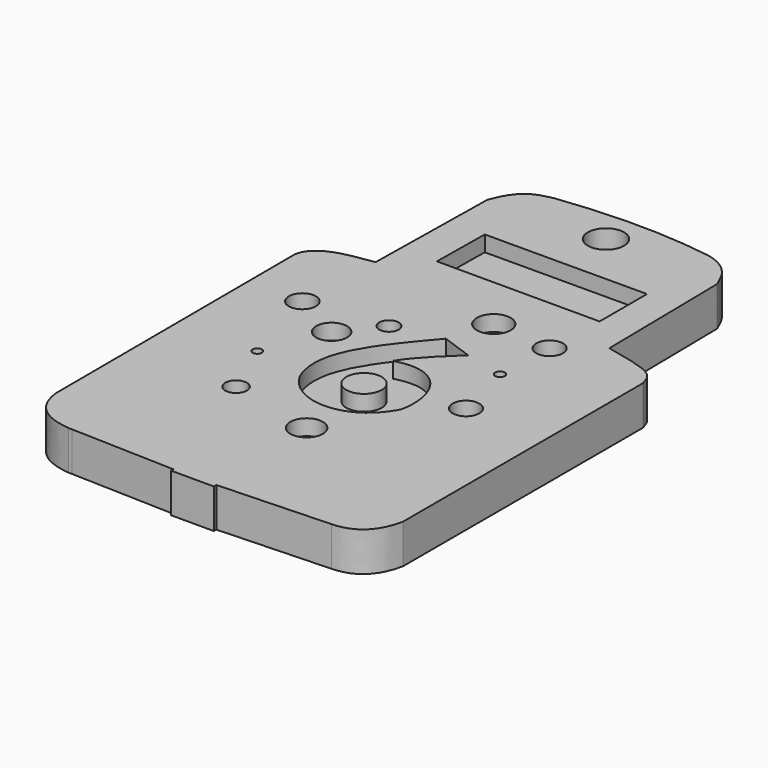
from build123d import *

# Parameters (mm, degrees)
F0_R     = 1.496924
F0_R_2   = 3.477607
F0_R_3   = 5.000213
F0_R_4   = 5.256627
F0_R_5   = 4.304855
F0_R_6   = 4.385843
F0_R_7   = 3.153201
F0_R_8   = 5.870011
F0_R_9   = 1.567334
F0_R_10  = 4.321853
F0_R_11  = 5.459754
F1_DEPTH = 12.7
F0_R_12  = 7.190762
F0_R_13  = 5.715
F2_DEPTH = 7.62
F3_DEPTH = 12.7


with BuildPart() as f1:
    # F0 (on Top) → F1 (new body)
    with BuildSketch(Plane.XY):
        with BuildLine():
            Line((-131.803075, 61.526629), (-132.53006, 17.42161))
            add(Edge.make_bspline(
                [(-132.53006, 17.42161), (-132.53006, 16.438883), (-150.375057, 16.976569), (-151.139576, 7.47687)],
                knots=[0, 0, 0, 0, 21.100047, 21.100047, 21.100047, 21.100047], degree=3))
            Line((-151.139576, 7.47687), (-150.796539, -89.187486))
            add(Edge.make_bspline(
                [(-150.796539, -89.187486), (-149.725936, -97.980395), (-143.849122, -101.201955), (-136.357958, -101.974052)],
                knots=[0, 0, 0, 0, 19.286496, 19.286496, 19.286496, 19.286496], degree=3))
            Line((-136.357958, -101.974052), (-135.276752, -101.974052))
            Line((-135.276752, -101.974052), (-101.682383, -103.054997))
            Line((-101.682383, -103.054997), (-101.712527, -103.991822))
            Line((-101.712527, -103.991822), (-87.849766, -103.991822))
            Line((-87.849766, -103.991822), (-87.858493, -102.977792))
            Line((-87.858493, -102.977792), (-51.757253, -101.539352))
            add(Edge.make_bspline(
                [(-38.531929, -89.229472), (-40.675483, -99.353819), (-46.844892, -101.366516), (-51.757253, -101.539352)],
                knots=[0, 0, 0, 0, 18.067715, 18.067715, 18.067715, 18.067715], degree=3))
            Line((-38.531929, -89.229472), (-38.531929, 7.680066))
            add(Edge.make_bspline(
                [(-57.082368, 17.358589), (-40.642904, 13.823552), (-40.001379, 12.821936), (-38.531929, 7.680066)],
                knots=[0, 0, 0, 0, 20.923494, 20.923494, 20.923494, 20.923494], degree=3))
            Line((-57.082368, 17.358589), (-57.757391, 61.679844))
            add(Edge.make_bspline(
                [(-57.757391, 61.679844), (-58.758005, 63.463514), (-60.22691, 70.734918), (-69.454086, 72.549358)],
                knots=[0, 0, 0, 0, 15.967435, 15.967435, 15.967435, 15.967435], degree=3))
            add(Edge.make_bspline(
                [(-119.06031, 72.685671), (-98.531029, 75.251681), (-82.806464, 74.541935), (-69.454086, 72.549358)],
                knots=[0, 0, 0, 0, 49.606411, 49.606411, 49.606411, 49.606411], degree=3))
            add(Edge.make_bspline(
                [(-131.803075, 61.526629), (-128.101333, 71.713794), (-122.839052, 71.691977), (-119.06031, 72.685671)],
                knots=[0, 0, 0, 0, 16.93819, 16.93819, 16.93819, 16.93819], degree=3))
        make_face()
        with Locations((-125.477582, -39.376188)):
            Circle(F0_R, mode=Mode.SUBTRACT)
        with Locations((-117.514238, -57.91628)):
            Circle(F0_R_2, mode=Mode.SUBTRACT)
        with Locations((-117.421836, -19.4379)):
            Circle(F0_R_3, mode=Mode.SUBTRACT)
        with BuildLine():
            add(Edge.make_bspline(
                [(-92.559412, -2.722392), (-99.928118, -11.216616), (-120.820127, -30.964935), (-108.078144, -47.028057)],
                knots=[0, 0, 0, 0, 46.944894, 46.944894, 46.944894, 46.944894], degree=3))
            Line((-92.559412, -2.722392), (-79.016782, -7.556637))
            add(Edge.make_bspline(
                [(-79.016782, -7.556637), (-83.614662, -11.021999), (-88.109598, -15.379434), (-91.712408, -19.805491)],
                knots=[0, 0, 0, 0, 17.64124, 17.64124, 17.64124, 17.64124], degree=3))
            add(Edge.make_bspline(
                [(-91.712408, -19.805491), (-71.812876, -19.32627), (-73.281839, -42.991612), (-78.178406, -46.745423)],
                knots=[0, 0, 0, 0, 30.148452, 30.148452, 30.148452, 30.148452], degree=3))
            add(Edge.make_bspline(
                [(-108.078144, -47.028057), (-100.131333, -56.782793), (-82.993366, -54.98749), (-78.178406, -46.745423)],
                knots=[0, 0, 0, 0, 29.901075, 29.901075, 29.901075, 29.901075], degree=3))
        make_face(mode=Mode.SUBTRACT)
        with Locations((-89.558132, -64.366221)):
            Circle(F0_R_4, mode=Mode.SUBTRACT)
        with Locations((-64.769246, -30.964935)):
            Circle(F0_R_5, mode=Mode.SUBTRACT)
        with Locations((-133.611128, -11.011187)):
            Circle(F0_R_6, mode=Mode.SUBTRACT)
        with Locations((-108.078144, -7.924549)):
            Circle(F0_R_7, mode=Mode.SUBTRACT)
        with Locations((-95.0303, 63.422114)):
            Circle(F0_R_8, mode=Mode.SUBTRACT)
        with Locations((-69.72374, -11.021999)):
            Circle(F0_R_9, mode=Mode.SUBTRACT)
        with Locations((-68.831384, 7.891561)):
            Circle(F0_R_10, mode=Mode.SUBTRACT)
        with Locations((-88.109598, 9.438152)):
            Circle(F0_R_11, mode=Mode.SUBTRACT)
        Polygon((-127.203408, 20.682184), (-127.325644, 52.755584), (-61.360919, 52.755584), (-61.360919, 20.682184), align=None, mode=Mode.SUBTRACT)
        with BuildLine():
            Line((-79.016782, -7.556637), (-92.559412, -2.722392))
            add(Edge.make_bspline(
                [(-92.559412, -2.722392), (-99.928118, -11.216616), (-120.820127, -30.964935), (-108.078144, -47.028057)],
                knots=[0, 0, 0, 0, 46.944894, 46.944894, 46.944894, 46.944894], degree=3))
            add(Edge.make_bspline(
                [(-108.078144, -47.028057), (-100.131333, -56.782793), (-82.993366, -54.98749), (-78.178406, -46.745423)],
                knots=[0, 0, 0, 0, 29.901075, 29.901075, 29.901075, 29.901075], degree=3))
            add(Edge.make_bspline(
                [(-91.712408, -19.805491), (-71.812876, -19.32627), (-73.281839, -42.991612), (-78.178406, -46.745423)],
                knots=[0, 0, 0, 0, 30.148452, 30.148452, 30.148452, 30.148452], degree=3))
            add(Edge.make_bspline(
                [(-79.016782, -7.556637), (-83.614662, -11.021999), (-88.109598, -15.379434), (-91.712408, -19.805491)],
                knots=[0, 0, 0, 0, 17.64124, 17.64124, 17.64124, 17.64124], degree=3))
        make_face()
        with BuildLine():
            add(Edge.make_bspline(
                [(-92.559412, -4.335725), (-105.420828, -19.4379), (-113.935962, -30.403955), (-108.555153, -43.363504)],
                knots=[0, 0, 0, 0, 42.178564, 42.178564, 42.178564, 42.178564], degree=3))
            Line((-92.559412, -4.335725), (-82.505698, -7.924549))
            add(Edge.make_bspline(
                [(-82.505698, -7.924549), (-87.019771, -12.31665), (-91.893606, -16.58126), (-95.404953, -22.153838)],
                knots=[0, 0, 0, 0, 19.205817, 19.205817, 19.205817, 19.205817], degree=3))
            add(Edge.make_bspline(
                [(-95.404953, -22.153838), (-80.268763, -17.979054), (-75.162396, -31.588022), (-77.190861, -41.397225)],
                knots=[0, 0, 0, 0, 26.496436, 26.496436, 26.496436, 26.496436], degree=3))
            add(Edge.make_bspline(
                [(-108.555153, -43.363504), (-102.122009, -55.195887), (-84.086247, -55.540521), (-77.190861, -41.397225)],
                knots=[0, 0, 0, 0, 31.425866, 31.425866, 31.425866, 31.425866], degree=3))
        make_face(mode=Mode.SUBTRACT)
        Polygon((-61.360919, 52.755584), (-127.325644, 52.755584), (-127.203408, 20.682184), (-61.360919, 20.682184), align=None)
        Polygon((-67.204248, 26.135962), (-121.871863, 26.135962), (-121.612164, 47.301807), (-67.204248, 47.301807), align=None, mode=Mode.SUBTRACT)
        Polygon((-121.612164, 47.301807), (-121.871863, 26.135962), (-67.204248, 26.135962), (-67.204248, 47.301807), align=None)
        Polygon((-68.156406, 27.233338), (-120.712638, 27.233338), (-120.479164, 46.26181), (-68.156406, 46.403773), align=None, mode=Mode.SUBTRACT)
    extrude(amount=F1_DEPTH)

    # F0 (on Top) → F2 (join)
    with BuildSketch(Plane.XY):
        with Locations((-88.109598, 9.438152)):
            Circle(F0_R_11)
        with Locations((-68.831384, 7.891561)):
            Circle(F0_R_10)
        with Locations((-69.72374, -11.021999)):
            Circle(F0_R_9)
        with Locations((-64.769246, -30.964935)):
            Circle(F0_R_5)
        with Locations((-108.078144, -7.924549)):
            Circle(F0_R_7)
        with Locations((-117.421836, -19.4379)):
            Circle(F0_R_3)
        with Locations((-133.611128, -11.011187)):
            Circle(F0_R_6)
        with Locations((-125.477582, -39.376188)):
            Circle(F0_R)
        with Locations((-117.514238, -57.91628)):
            Circle(F0_R_2)
        with Locations((-89.558132, -64.366221)):
            Circle(F0_R_4)
        with BuildLine():
            Line((-82.505698, -7.924549), (-92.559412, -4.335725))
            add(Edge.make_bspline(
                [(-92.559412, -4.335725), (-105.420828, -19.4379), (-113.935962, -30.403955), (-108.555153, -43.363504)],
                knots=[0, 0, 0, 0, 42.178564, 42.178564, 42.178564, 42.178564], degree=3))
            add(Edge.make_bspline(
                [(-108.555153, -43.363504), (-102.122009, -55.195887), (-84.086247, -55.540521), (-77.190861, -41.397225)],
                knots=[0, 0, 0, 0, 31.425866, 31.425866, 31.425866, 31.425866], degree=3))
            add(Edge.make_bspline(
                [(-95.404953, -22.153838), (-80.268763, -17.979054), (-75.162396, -31.588022), (-77.190861, -41.397225)],
                knots=[0, 0, 0, 0, 26.496436, 26.496436, 26.496436, 26.496436], degree=3))
            add(Edge.make_bspline(
                [(-82.505698, -7.924549), (-87.019771, -12.31665), (-91.893606, -16.58126), (-95.404953, -22.153838)],
                knots=[0, 0, 0, 0, 19.205817, 19.205817, 19.205817, 19.205817], degree=3))
        make_face()
        with Locations((-93.40658, -36.362156)):
            Circle(F0_R_12, mode=Mode.SUBTRACT)
        Polygon((-120.479164, 46.26181), (-120.712638, 27.233338), (-68.156406, 27.233338), (-68.156406, 46.403773), align=None)
        with Locations((-93.40658, -36.362156)):
            Circle(F0_R_13)
        with Locations((-93.40658, -36.362156)):
            Circle(F0_R_12)
        with Locations((-93.40658, -36.362156)):
            Circle(F0_R_13, mode=Mode.SUBTRACT)
    extrude(amount=F2_DEPTH)

    # F0 (on Top) → F3 (join)
    with BuildSketch(Plane.XY):
        with Locations((-93.40658, -36.362156)):
            Circle(F0_R_13)
    extrude(amount=F3_DEPTH)


solid = f1.part
